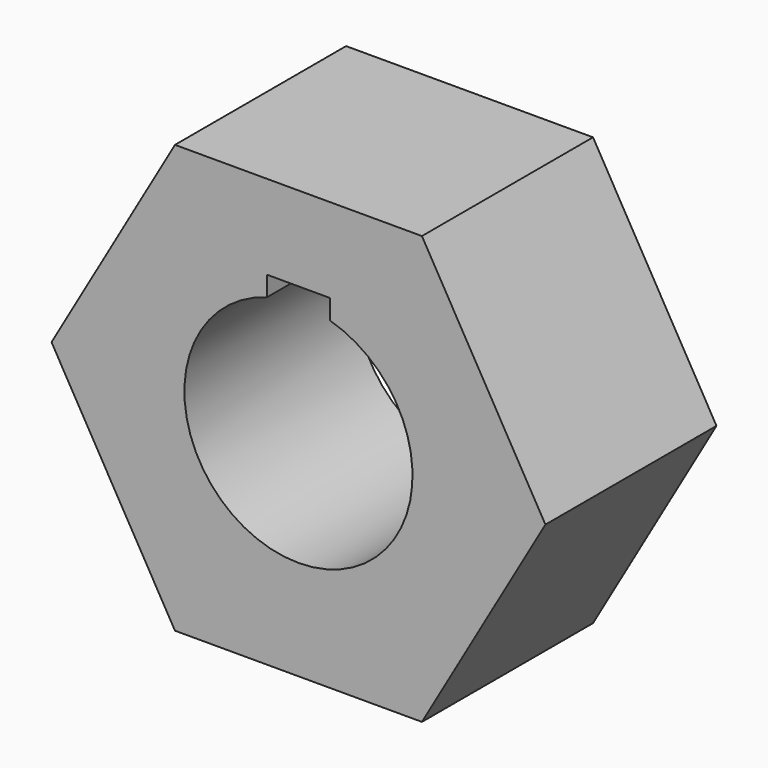
from build123d import *

# Parameters (mm, degrees)
F1_DEPTH = 75


with BuildPart() as f1:
    # F0 (on Front) → F1 (new body)
    with BuildSketch(Plane.XZ):
        Polygon((43.30127, -75), (86.60254, 0), (43.30127, 75), (-43.30127, 75), (-86.60254, 0), (-43.30127, -75), align=None)
        with BuildLine():
            ThreePointArc((11, 38.457769), (0, -40), (-11, 38.457769))
            Line((-11, 38.457769), (-11, 45.4))
            Line((-11, 45.4), (11, 45.4))
            Line((11, 45.4), (11, 38.457769))
        make_face(mode=Mode.SUBTRACT)
    extrude(amount=F1_DEPTH)


solid = f1.part
